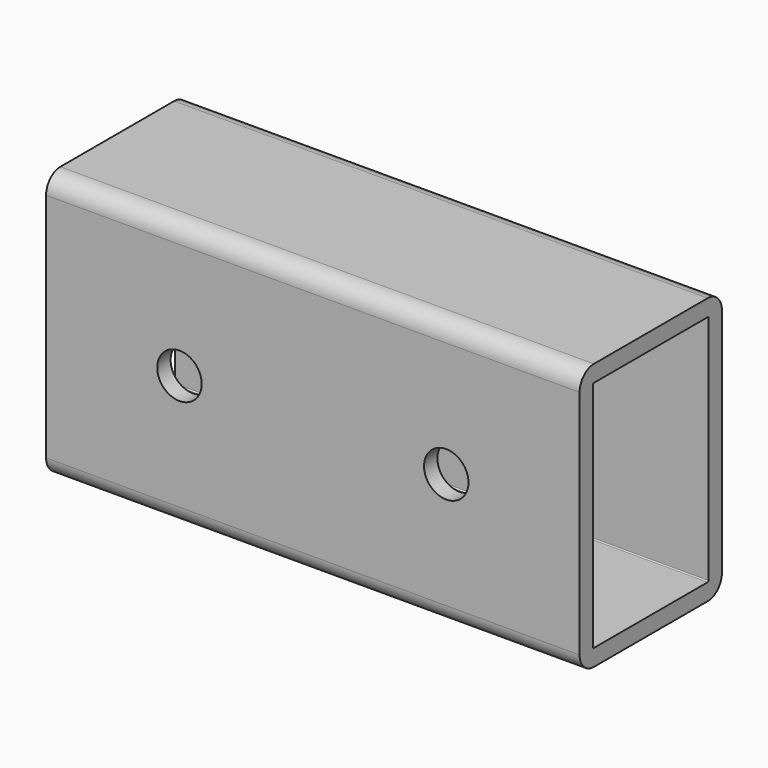
from build123d import *

# Parameters (mm, degrees)
F0_W     = 50.8
F0_H     = 76.2
F1_DEPTH = 152.4
F2_R     = 5.08
F3_T     = -4.7752
F4_R     = 6.35
F5_DEPTH = 4.7752


with BuildPart() as f1:
    # F0 (on Right) → F1 (new body)
    with BuildSketch(Plane.YZ):
        with Locations((25.4, 38.1)):
            Rectangle(F0_W, F0_H)
    extrude(amount=F1_DEPTH)

    # F2
    f2_edges = [f1.edges().sort_by_distance(p)[0] for p in [
        (76.2, 0, 76.2),
        (76.2, 50.8, 76.2),
        (76.2, 0, 0),
        (76.2, 50.8, 0),
    ]]
    fillet(f2_edges, radius=F2_R)

    # F3
    f3_openings = [f1.faces().sort_by_distance(p)[0] for p in [
        (152.4, 25.4, 38.1),
        (0, 25.4, 38.1),
    ]]
    offset(amount=F3_T, openings=f3_openings)

    # F4 (on face) → F5 (cut, through all)
    with BuildSketch(Plane.XZ):
        with Locations((38.1, 38.1)):
            Circle(F4_R)
        with Locations((114.3, 38.1)):
            Circle(F4_R)
    extrude(amount=-F5_DEPTH, mode=Mode.SUBTRACT)


solid = f1.part
